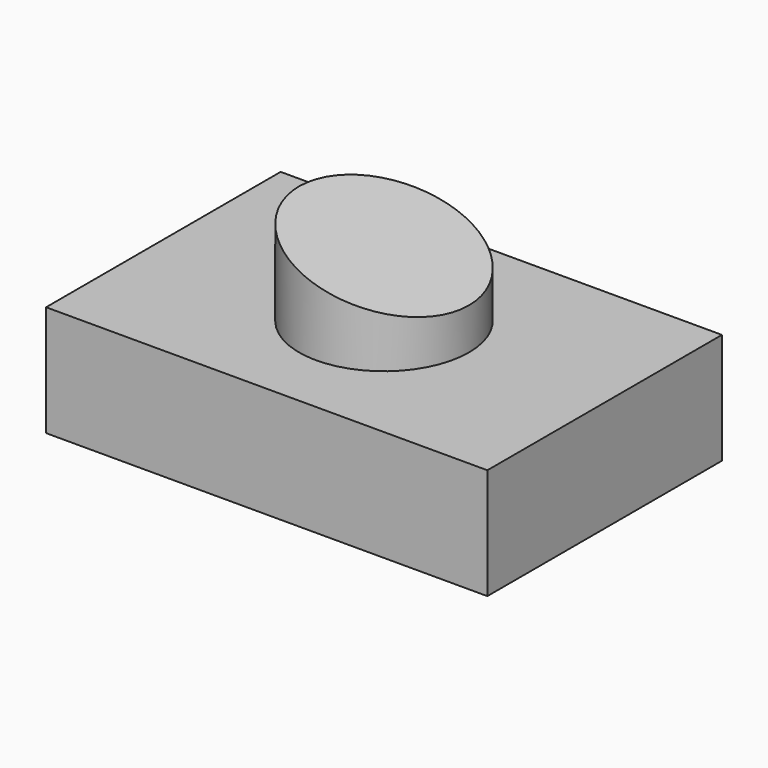
from build123d import *

# Parameters (mm, degrees)
F0_W     = 101.13819
F0_H     = 67.194544
F1_DEPTH = 25.4
F2_R     = 19.468615
F3_DEPTH = 25.4
F5_DEPTH = 82.804


with BuildPart() as f1:
    # F0 (on Top) → F1 (new body)
    with BuildSketch(Plane.XY):
        Rectangle(F0_W, F0_H)
    extrude(amount=F1_DEPTH)

    # F2 (on face) → F3 (join)
    with BuildSketch(Plane.XY.offset(25.4)):
        Circle(F2_R)
    extrude(amount=F3_DEPTH)

    # F4 (on face) → F5 (cut)
    with BuildSketch(Plane.XZ.offset(33.597272)):
        Polygon((-19.627273, 46.297271), (20.550909, 34.578636), (20.550909, 51.608179), (-19.627273, 51.608179), align=None)
    extrude(amount=-F5_DEPTH, mode=Mode.SUBTRACT)


solid = f1.part
